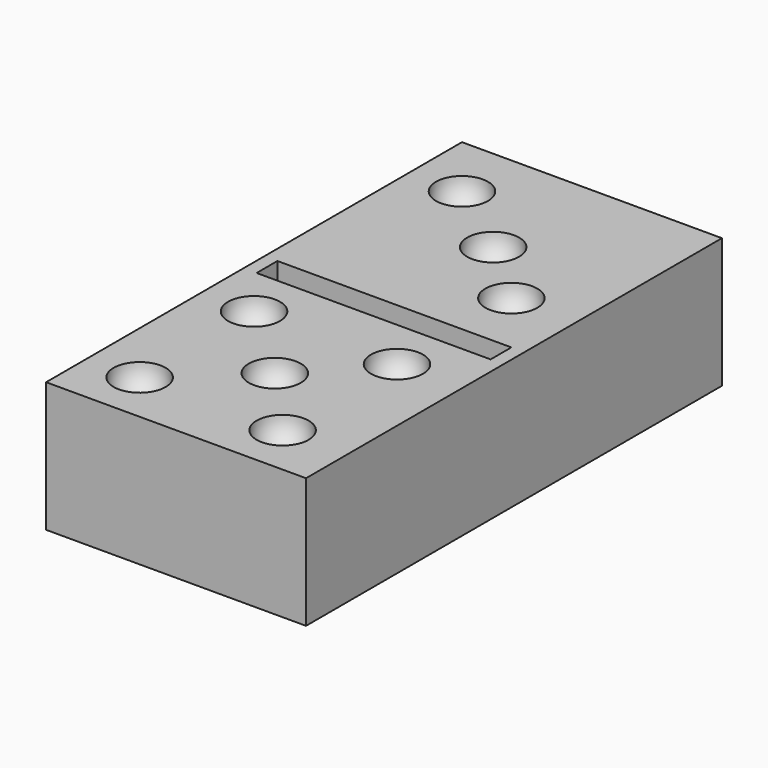
from build123d import *

# Parameters (mm, degrees)
BOX001_W     = 18
BOX001_H     = 2
BOX001_DEPTH = 10
BOX_W        = 20
BOX_H        = 40
BOX_DEPTH    = 10


with BuildPart() as sphere001:
    # Sphere001 → Sphere001 (revolve)
    with BuildSketch(Plane(origin=(4, 4, 10), x_dir=(1, 0, 0), z_dir=(0, -1, 0))):
        with BuildLine():
            ThreePointArc((0, -2), (2, 0), (0, 2))
            Line((0, 2), (0, -2))
        make_face()
    revolve(axis=Axis((4, 4, 10), (0, 0, 1)))


with BuildPart() as sphere002:
    # Sphere002 → Sphere002 (revolve)
    with BuildSketch(Plane(origin=(15, 4, 10), x_dir=(1, 0, 0), z_dir=(0, -1, 0))):
        with BuildLine():
            ThreePointArc((0, -2), (2, 0), (0, 2))
            Line((0, 2), (0, -2))
        make_face()
    revolve(axis=Axis((15, 4, 10), (0, 0, 1)))


with BuildPart() as sphere003:
    # Sphere003 → Sphere003 (revolve)
    with BuildSketch(Plane(origin=(4, 35, 10), x_dir=(1, 0, 0), z_dir=(0, -1, 0))):
        with BuildLine():
            ThreePointArc((0, -2), (2, 0), (0, 2))
            Line((0, 2), (0, -2))
        make_face()
    revolve(axis=Axis((4, 35, 10), (0, 0, 1)))


with BuildPart() as sphere004:
    # Sphere004 → Sphere004 (revolve)
    with BuildSketch(Plane(origin=(15, 15, 10), x_dir=(1, 0, 0), z_dir=(0, -1, 0))):
        with BuildLine():
            ThreePointArc((0, -2), (2, 0), (0, 2))
            Line((0, 2), (0, -2))
        make_face()
    revolve(axis=Axis((15, 15, 10), (0, 0, 1)))


with BuildPart() as sphere005:
    # Sphere005 → Sphere005 (revolve)
    with BuildSketch(Plane(origin=(10, 30.5, 10), x_dir=(1, 0, 0), z_dir=(0, -1, 0))):
        with BuildLine():
            ThreePointArc((0, -2), (2, 0), (0, 2))
            Line((0, 2), (0, -2))
        make_face()
    revolve(axis=Axis((10, 30.5, 10), (0, 0, 1)))


with BuildPart() as sphere006:
    # Sphere006 → Sphere006 (revolve)
    with BuildSketch(Plane(origin=(4, 15, 10), x_dir=(1, 0, 0), z_dir=(0, -1, 0))):
        with BuildLine():
            ThreePointArc((0, -2), (2, 0), (0, 2))
            Line((0, 2), (0, -2))
        make_face()
    revolve(axis=Axis((4, 15, 10), (0, 0, 1)))


with BuildPart() as sphere007:
    # Sphere007 → Sphere007 (revolve)
    with BuildSketch(Plane(origin=(15, 26, 10), x_dir=(1, 0, 0), z_dir=(0, -1, 0))):
        with BuildLine():
            ThreePointArc((0, -2), (2, 0), (0, 2))
            Line((0, 2), (0, -2))
        make_face()
    revolve(axis=Axis((15, 26, 10), (0, 0, 1)))


with BuildPart() as sphere:
    # Sphere → Sphere (revolve)
    with BuildSketch(Plane(origin=(10, 9.5, 10), x_dir=(1, 0, 0), z_dir=(0, -1, 0))):
        with BuildLine():
            ThreePointArc((0, -2), (2, 0), (0, 2))
            Line((0, 2), (0, -2))
        make_face()
    revolve(axis=Axis((10, 9.5, 10), (0, 0, 1)))


with BuildPart() as cube001:
    # Box001 → Box001 (new body)
    with BuildSketch(Plane(origin=(1, 19, 0), x_dir=(1, 0, 0), z_dir=(0, 0, 1))):
        with Locations((9, 1)):
            Rectangle(BOX001_W, BOX001_H)
    extrude(amount=BOX001_DEPTH)


with BuildPart() as cut008:
    # Box → Box (new body)
    with BuildSketch(Plane.XY):
        with Locations((10, 20)):
            Rectangle(BOX_W, BOX_H)
    extrude(amount=BOX_DEPTH)

    # Cut: cut Cube001
    add(cube001.part, mode=Mode.SUBTRACT)

    # Cut001: cut Sphere
    add(sphere.part, mode=Mode.SUBTRACT)

    # Cut002: cut Sphere007
    add(sphere007.part, mode=Mode.SUBTRACT)

    # Cut003: cut Sphere006
    add(sphere006.part, mode=Mode.SUBTRACT)

    # Cut004: cut Sphere005
    add(sphere005.part, mode=Mode.SUBTRACT)

    # Cut005: cut Sphere004
    add(sphere004.part, mode=Mode.SUBTRACT)

    # Cut006: cut Sphere003
    add(sphere003.part, mode=Mode.SUBTRACT)

    # Cut007: cut Sphere002
    add(sphere002.part, mode=Mode.SUBTRACT)

    # Cut008: cut Sphere001
    add(sphere001.part, mode=Mode.SUBTRACT)


solid = cut008.part
